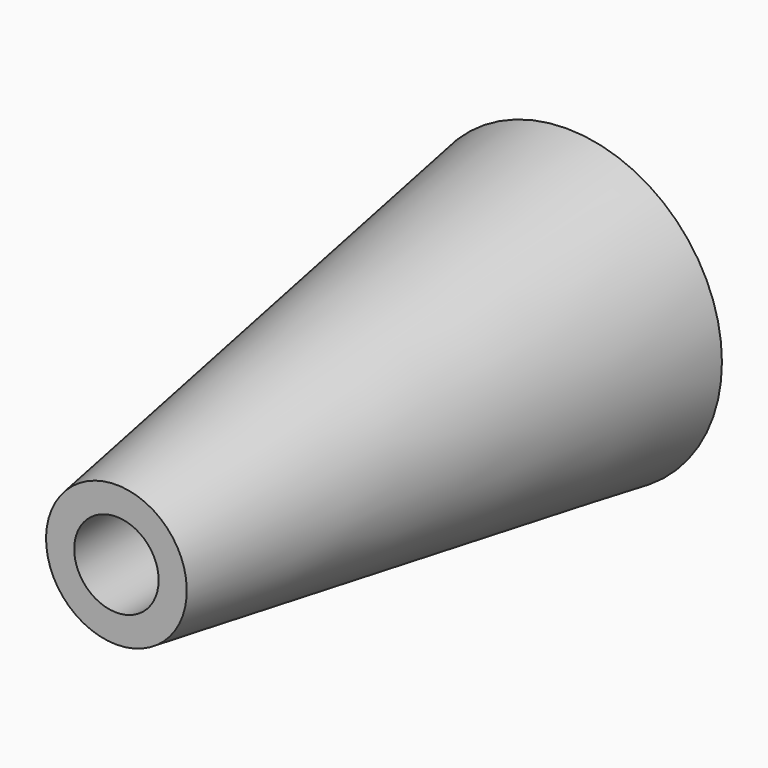
from build123d import *

# Parameters (mm, degrees)
F2_R     = 1.524
F3_DEPTH = 20.32


with BuildPart() as f1:
    # F0 (on Right) → F1 (revolve)
    with BuildSketch(Plane.YZ):
        Polygon((-61.848832, 117.528982), (-61.848832, 123.129651), (-82.168832, 123.129651), (-82.168832, 120.589651), align=None)
    revolve(axis=Axis((0, -72.008832, 123.129651), (0, -1, 0)))

    # F2 (on face) → F3 (cut)
    with BuildSketch(Plane.XZ.offset(82.168832)):
        with Locations((0, 123.129651)):
            Circle(F2_R)
    extrude(amount=-F3_DEPTH, mode=Mode.SUBTRACT)


solid = f1.part
